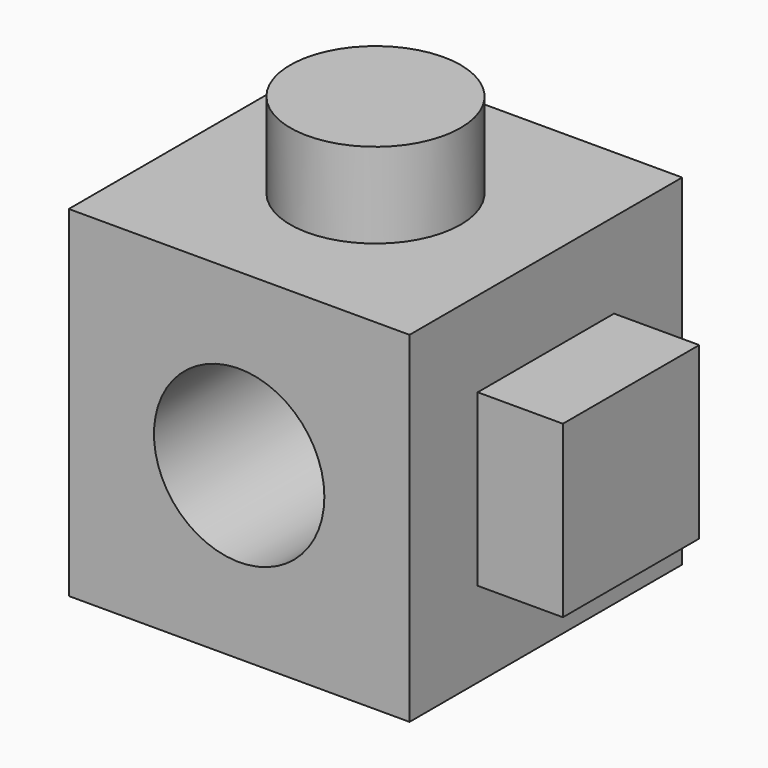
from build123d import *

# Parameters (mm, degrees)
F0_W     = 50.8
F0_H     = 50.8
F1_DEPTH = 50.8
F2_R     = 12.7
F3_DEPTH = 50.8
F4_W     = 25.4
F4_H     = 25.4
F5_DEPTH = 12.7
F6_R     = 12.7
F7_DEPTH = 12.7


with BuildPart() as f1:
    # F0 (on Front) → F1 (new body)
    with BuildSketch(Plane.XZ):
        with Locations((6.966812, 3.153781)):
            Rectangle(F0_W, F0_H)
    extrude(amount=F1_DEPTH)

    # F2 (on face) → F3 (cut)
    with BuildSketch(Plane.XZ.offset(50.8)):
        with Locations((6.966812, 3.153781)):
            Circle(F2_R)
    extrude(amount=-F3_DEPTH, mode=Mode.SUBTRACT)

    # F4 (on face) → F5 (join)
    with BuildSketch(Plane.YZ.offset(32.366812)):
        with Locations((-25.4, 3.153781)):
            Rectangle(F4_W, F4_H)
    extrude(amount=F5_DEPTH)

    # F6 (on face) → F7 (join)
    with BuildSketch(Plane.XY.offset(28.553781)):
        with Locations((6.966812, -25.4)):
            Circle(F6_R)
    extrude(amount=F7_DEPTH)


solid = f1.part
